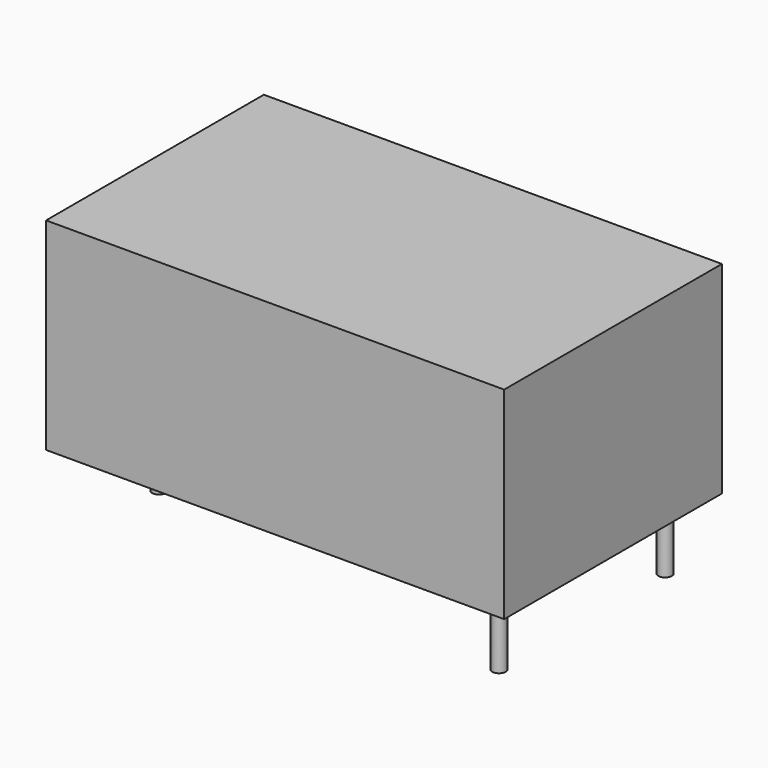
from build123d import *

# Parameters (mm, degrees)
F0_W     = 34
F0_H     = 15
F1_DEPTH = 10.1
F2_R     = 0.5
F3_DEPTH = 5


with BuildPart() as f1:
    # F0 (on Front) → F1 (new body, symmetric)
    with BuildSketch(Plane.XZ):
        with Locations((0, 7.5)):
            Rectangle(F0_W, F0_H)
    extrude(amount=F1_DEPTH, both=True)

    # F2 (on face) → F3 (join)
    with BuildSketch(Plane(origin=(0, 0, 0), x_dir=(1, 0, 0), z_dir=(0, 0, -1))):
        with Locations((-14.7, 2.5)):
            Circle(F2_R)
        with Locations((-14.7, -2.5)):
            Circle(F2_R)
        with Locations((14.7, 7.7)):
            Circle(F2_R)
        with Locations((14.7, -7.7)):
            Circle(F2_R)
    extrude(amount=F3_DEPTH)


solid = f1.part
